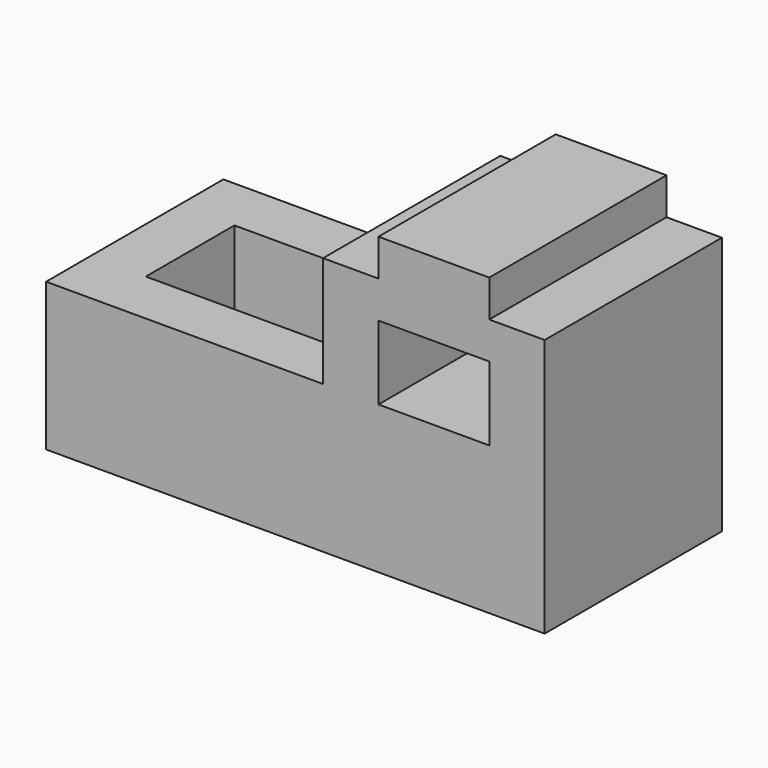
from build123d import *

# Parameters (mm, degrees)
F1_DEPTH = 1219.2
F2_W     = 609.6
F2_H     = 406.4
F3_DEPTH = 1219.201
F4_W     = 1219.2
F4_H     = 609.6
F5_DEPTH = 609.6


with BuildPart() as f1:
    # F0 (on Front) → F1 (new body)
    with BuildSketch(Plane.XZ):
        Polygon((-1114.699841, 756.476952), (-1114.699841, -56.323048), (1628.500159, -56.323048), (1628.500159, 1366.076952), (1323.700159, 1366.076952), (1323.700159, 1569.276952), (714.100159, 1569.276952), (714.100159, 1366.076952), (409.300159, 1366.076952), (409.300159, 756.476952), align=None)
    extrude(amount=F1_DEPTH)

    # F2 (on face) → F3 (cut, through all)
    with BuildSketch(Plane.XZ.offset(1219.2)):
        with Locations((1018.900159, 959.676952)):
            Rectangle(F2_W, F2_H)
    extrude(amount=-F3_DEPTH, mode=Mode.SUBTRACT)

    # F4 (on face) → F5 (cut)
    with BuildSketch(Plane.XY.offset(756.476952)):
        with Locations((-200.299841, -609.6)):
            Rectangle(F4_W, F4_H)
    extrude(amount=-F5_DEPTH, mode=Mode.SUBTRACT)


solid = f1.part
